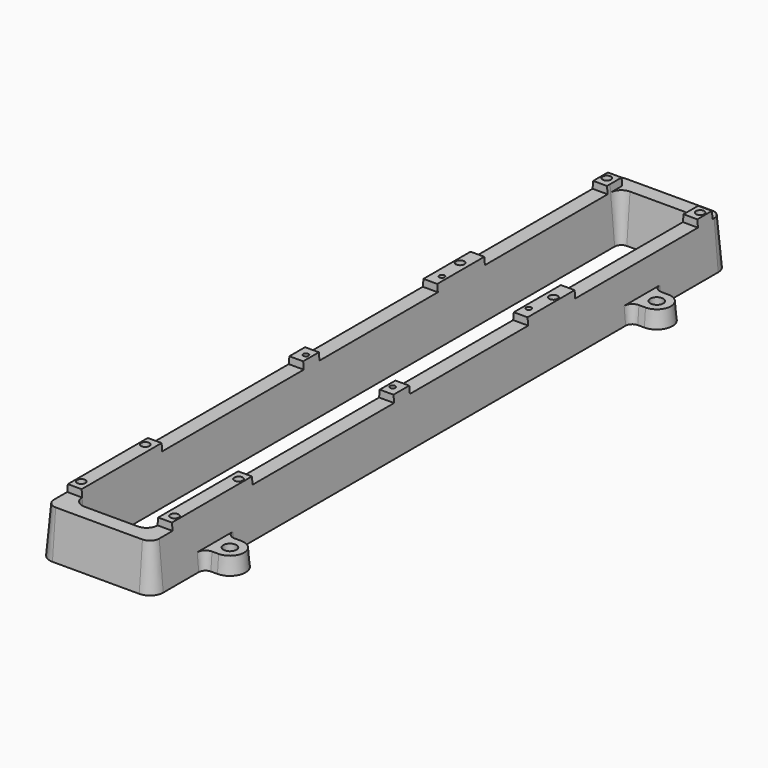
from build123d import *

# Parameters (mm, degrees)
F1_DEPTH      = 25.4
F1_TAPER      = 5
F3_DEPTH      = 304.8010001
F3_DEPTH_BACK = 38.1010001
F4_W          = 70.425
F4_H          = 3.4
F4_W_2        = 84.225
F5_DEPTH      = 40.7760001
F5_DEPTH_BACK = 40.7760001
F6_W          = 73
F6_H          = 3.4
F7_DEPTH      = 40.7760001
F7_DEPTH_BACK = 40.7760001
F9_DEPTH      = 16.0010001
F10_R         = 3.1
F11_DEPTH     = 25.4010001
F12_R         = 2
F12_R_2       = 1.25
F13_DEPTH     = 11


with BuildPart() as f1:
    # F0 (on Top) → F1 (new body)
    with BuildSketch(Plane.XY):
        with BuildLine():
            Line((20.65, 304.8), (-20.65, 304.8))
            ThreePointArc((-20.65, 304.8), (-25.1401280605, 302.9401280605), (-27, 298.45))
            Line((-27, 298.45), (-27, 264.625))
            ThreePointArc((-27, 264.625), (-27.9372583002, 262.3622583002), (-30.2, 261.425))
            Line((-30.2, 261.425), (-33.35, 261.425))
            ThreePointArc((-33.35, 261.425), (-40.775, 254), (-33.35, 246.575))
            Line((-33.35, 246.575), (-30.2, 246.575))
            ThreePointArc((-30.2, 246.575), (-27.9372583002, 245.6377416998), (-27, 243.375))
            Line((-27, 243.375), (-27, 10.625))
            ThreePointArc((-27, 10.625), (-27.9372583002, 8.3622583002), (-30.2, 7.425))
            Line((-30.2, 7.425), (-33.35, 7.425))
            ThreePointArc((-33.35, 7.425), (-40.775, 0), (-33.35, -7.425))
            Line((-33.35, -7.425), (-30.2, -7.425))
            ThreePointArc((-30.2, -7.425), (-27.9372583002, -8.3622583002), (-27, -10.625))
            Line((-27, -10.625), (-27, -31.75))
            ThreePointArc((-27, -31.75), (-25.1401280605, -36.2401280605), (-20.65, -38.1))
            Line((-20.65, -38.1), (20.65, -38.1))
            ThreePointArc((20.65, -38.1), (25.1401280605, -36.2401280605), (27, -31.75))
            Line((27, -31.75), (27, -10.625))
            ThreePointArc((27, -10.625), (27.9372583002, -8.3622583002), (30.2, -7.425))
            Line((30.2, -7.425), (33.35, -7.425))
            ThreePointArc((33.35, -7.425), (40.775, 0), (33.35, 7.425))
            Line((33.35, 7.425), (30.2, 7.425))
            ThreePointArc((30.2, 7.425), (27.9372583002, 8.3622583002), (27, 10.625))
            Line((27, 10.625), (27, 243.375))
            ThreePointArc((27, 243.375), (27.9372583002, 245.6377416998), (30.2, 246.575))
            Line((30.2, 246.575), (33.35, 246.575))
            ThreePointArc((33.35, 246.575), (40.775, 254), (33.35, 261.425))
            Line((33.35, 261.425), (30.2, 261.425))
            ThreePointArc((30.2, 261.425), (27.9372583002, 262.3622583002), (27, 264.625))
            Line((27, 264.625), (27, 298.45))
            ThreePointArc((27, 298.45), (25.1401280605, 302.9401280605), (20.65, 304.8))
        make_face()
        with BuildLine():
            ThreePointArc((-16, 290.6), (-15.0627416998, 292.8627416998), (-12.8, 293.8))
            Line((-12.8, 293.8), (12.8, 293.8))
            ThreePointArc((12.8, 293.8), (15.0627416998, 292.8627416998), (16, 290.6))
            Line((16, 290.6), (16, -23.9))
            ThreePointArc((16, -23.9), (15.0627416998, -26.1627416998), (12.8, -27.1))
            Line((12.8, -27.1), (-12.8, -27.1))
            ThreePointArc((-12.8, -27.1), (-15.0627416998, -26.1627416998), (-16, -23.9))
            Line((-16, -23.9), (-16, 290.6))
        make_face(mode=Mode.SUBTRACT)
    extrude(amount=F1_DEPTH, taper=F1_TAPER)

    # F2 (on Front) → F3 (cut, two sides)
    with BuildSketch(Plane.XZ) as f3_sk:
        Polygon((-26.2913418254, 8.1), (-24.7777879464, 25.4), (-38.5527879464, 25.4), (-40.0663418254, 8.1), align=None)
        Polygon((38.5527879464, 25.4), (24.7777879464, 25.4), (26.2913418254, 8.1), (40.0663418254, 8.1), align=None)
    extrude(amount=-F3_DEPTH, mode=Mode.SUBTRACT)
    extrude(f3_sk.sketch, amount=F3_DEPTH_BACK, mode=Mode.SUBTRACT)

    # F4 (on Right) → F5 (cut, two sides)
    with BuildSketch(Plane.YZ) as f5_sk:
        with Locations((152.5875, 23.7)):
            Rectangle(F4_W, F4_H)
        Polygon((-23.8, 22), (-23.8, 25.4), (-35.8777879464, 25.4), (-36.1752494024, 22), align=None)
        with Locations((65.9125, 23.7)):
            Rectangle(F4_W_2, F4_H)
    extrude(amount=-F5_DEPTH, mode=Mode.SUBTRACT)
    extrude(f5_sk.sketch, amount=F5_DEPTH_BACK, mode=Mode.SUBTRACT)

    # F6 (on Right) → F7 (cut, two sides)
    with BuildSketch(Plane.YZ) as f7_sk:
        Polygon((302.8752494024, 22), (302.5777879464, 25.4), (297.5, 25.4), (297.5, 22), align=None)
        with Locations((252.3, 23.7)):
            Rectangle(F6_W, F6_H)
    extrude(amount=-F7_DEPTH, mode=Mode.SUBTRACT)
    extrude(f7_sk.sketch, amount=F7_DEPTH_BACK, mode=Mode.SUBTRACT)

    # F8 (on face) → F9 (cut, through all)
    with BuildSketch(Plane.XZ.offset(-288.8)):
        Polygon((-18.2222120536, 25.4), (-17.9247505976, 22), (17.9247505976, 22), (18.2222120536, 25.4), align=None)
    extrude(amount=-F9_DEPTH, mode=Mode.SUBTRACT)

    # F10 (on face) → F11 (cut, through all)
    with BuildSketch(Plane(origin=(0, 0, 0), x_dir=(1, 0, 0), z_dir=(0, 0, -1))):
        with Locations((-33.35, 0)):
            Circle(F10_R)
        with Locations((33.35, 0)):
            Circle(F10_R)
        with Locations((-33.35, -254)):
            Circle(F10_R)
        with Locations((33.35, -254)):
            Circle(F10_R)
    extrude(amount=-F11_DEPTH, mode=Mode.SUBTRACT)

    # F12 (on face) → F13 (cut)
    with BuildSketch(Plane.XY.offset(25.4)):
        with Locations((22.225, -19.05)):
            Circle(F12_R)
        with Locations((22.225, 19.05)):
            Circle(F12_R)
        with Locations((-22.225, 19.05)):
            Circle(F12_R)
        with Locations((-22.225, -19.05)):
            Circle(F12_R)
        with Locations((22.225, 293.7)):
            Circle(F12_R)
        with Locations((22.225, 206.4)):
            Circle(F12_R)
        with Locations((-22.225, 206.4)):
            Circle(F12_R)
        with Locations((-22.225, 293.7)):
            Circle(F12_R)
        with Locations((20.65, 193.66)):
            Circle(F12_R_2)
        with Locations((20.65, 112.7)):
            Circle(F12_R_2)
        with Locations((-20.65, 112.7)):
            Circle(F12_R_2)
        with Locations((-20.65, 193.66)):
            Circle(F12_R_2)
    extrude(amount=-F13_DEPTH, mode=Mode.SUBTRACT)


solid = f1.part
